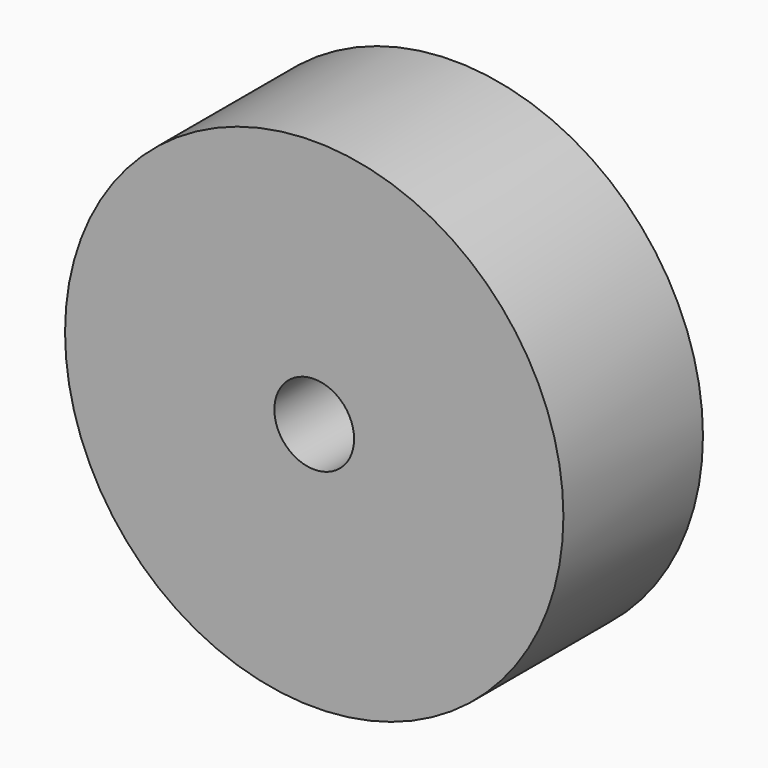
from build123d import *

# Parameters (mm, degrees)
SKETCH_R   = 100
SKETCH_R_2 = 16
PAD_DEPTH  = 70


with BuildPart() as part:
    # Sketch → Pad (new body)
    with BuildSketch(Plane.XZ):
        Circle(SKETCH_R)
        Circle(SKETCH_R_2, mode=Mode.SUBTRACT)
    extrude(amount=PAD_DEPTH)


solid = part.part
